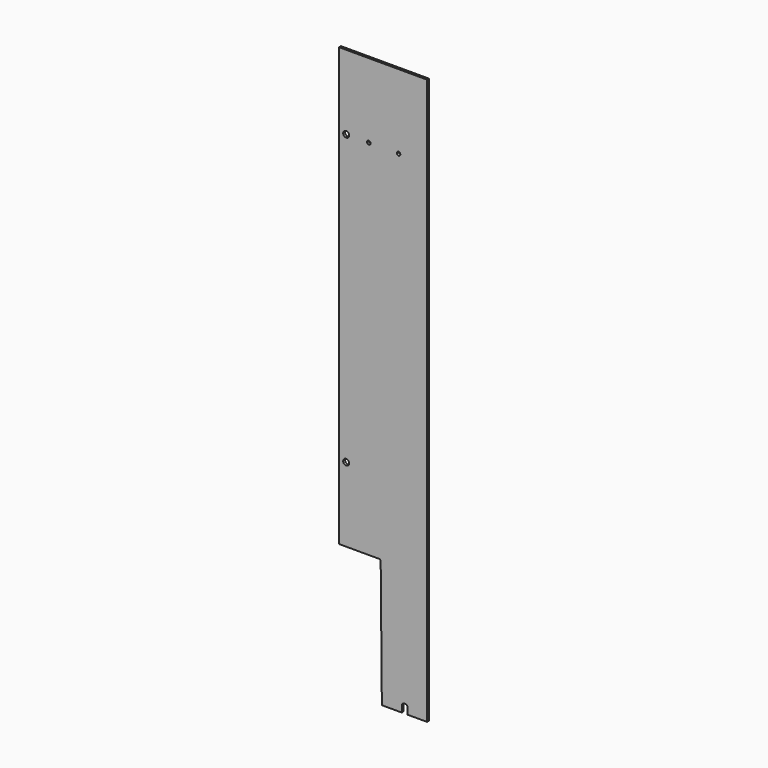
from build123d import *

# Parameters (mm, degrees)
F0_R     = 10
F0_R_2   = 6
F1_DEPTH = 8


with BuildPart() as f1:
    # F0 (on Front) → F1 (new body)
    with BuildSketch(Plane.XZ):
        with BuildLine():
            Line((148, 950), (-148, 950))
            Line((-148, 950), (-148, -520))
            Line((-148, -520), (-12.953705, -520))
            ThreePointArc((-12.953705, -520), (-9.434653, -521.448061), (-7.953921, -524.95349))
            Line((-7.953921, -524.95349), (-4, -950))
            Line((-4, -950), (63, -950))
            Line((63, -950), (63, -930))
            ThreePointArc((63, -930), (73, -920), (83, -930))
            Line((83, -930), (83, -950))
            Line((83, -950), (148, -950))
            Line((148, -950), (148, 950))
        make_face()
        with Locations((-124, -270)):
            Circle(F0_R, mode=Mode.SUBTRACT)
        with Locations((-124, 700)):
            Circle(F0_R, mode=Mode.SUBTRACT)
        with Locations((-48, 700)):
            Circle(F0_R_2, mode=Mode.SUBTRACT)
        with Locations((52, 700)):
            Circle(F0_R_2, mode=Mode.SUBTRACT)
    extrude(amount=F1_DEPTH)


solid = f1.part
